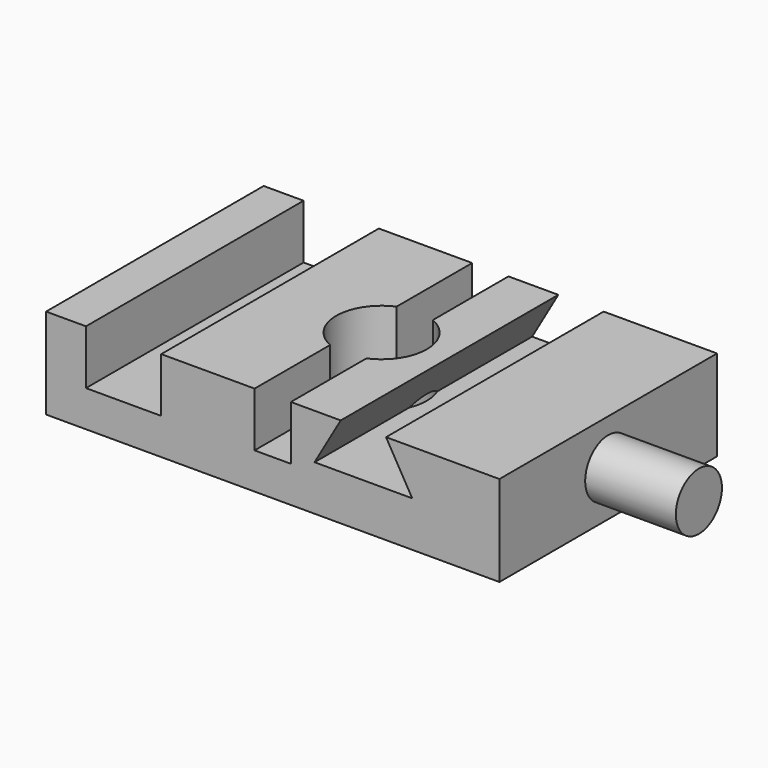
from build123d import *

# Parameters (mm, degrees)
F1_W     = 127
F1_H     = 76.2
F1_R     = 12.7
F2_DEPTH = 25.4
F3_W     = 21.082
F3_H     = 76.2
F4_DEPTH = 15.24
F6_DEPTH = 76.201
F7_R     = 8.0634907525
F8_DEPTH = 25.4


with BuildPart() as f2:
    # F1 (on face) → F2 (new body)
    with BuildSketch(Plane.XY):
        Rectangle(F1_W, F1_H)
        Circle(F1_R, mode=Mode.SUBTRACT)
    extrude(amount=F2_DEPTH)

    # F3 (on face) → F4 (cut)
    with BuildSketch(Plane.XY.offset(25.4)):
        with Locations((-41.783, 0)):
            Rectangle(F3_W, F3_H)
        with BuildLine():
            Line((5.0697553696, 38.1), (-5.0902446304, 38.1))
            Line((-5.0902446304, 38.1), (-5.0902446304, 11.6352657728))
            ThreePointArc((-5.0902446304, 11.6352657728), (-0.0111778089, 12.699995081), (5.0697553696, 11.6442080234))
            Line((5.0697553696, 11.6442080234), (5.0697553696, 38.1))
        make_face()
        with BuildLine():
            Line((-5.0902446304, -11.6352657728), (-5.0902446304, -38.1))
            Line((-5.0902446304, -38.1), (5.0697553696, -38.1))
            Line((5.0697553696, -38.1), (5.0697553696, -11.6442080234))
            ThreePointArc((5.0697553696, -11.6442080234), (-0.0111778089, -12.699995081), (-5.0902446304, -11.6352657728))
        make_face()
    extrude(amount=-F4_DEPTH, mode=Mode.SUBTRACT)

    # F5 (on face) → F6 (cut, through all)
    with BuildSketch(Plane.XZ.offset(38.1)):
        Polygon((31.7397553696, 25.4), (19.0397553696, 25.4), (11.7074069509, 12.7), (39.0721037883, 12.7), align=None)
    extrude(amount=-F6_DEPTH, mode=Mode.SUBTRACT)

    # F7 (on face) → F8 (join)
    with BuildSketch(Plane.YZ.offset(63.5)):
        with Locations((0, 12.7)):
            Circle(F7_R)
    extrude(amount=F8_DEPTH)


solid = f2.part
